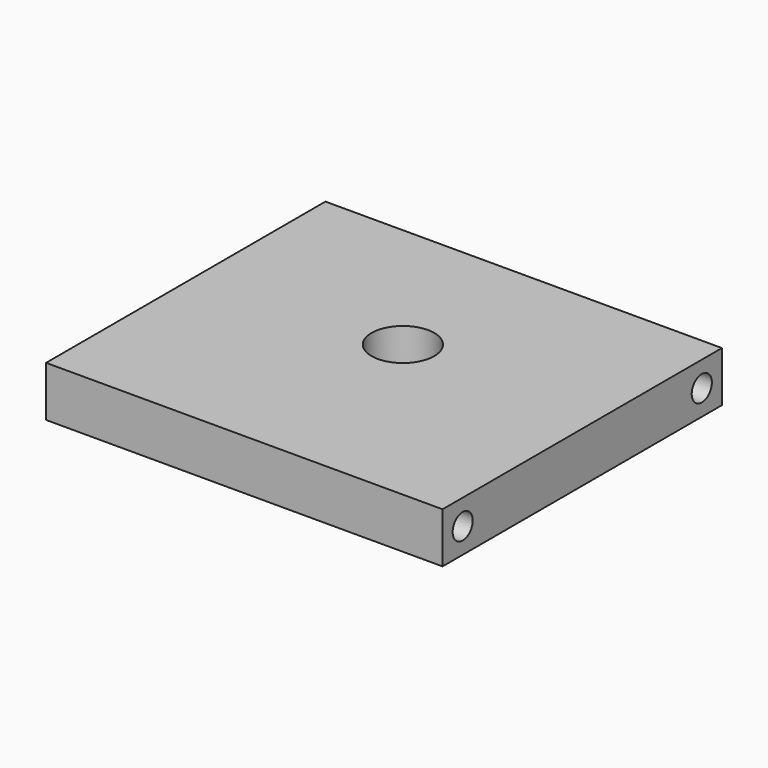
from build123d import *

# Parameters (mm, degrees)
F0_W     = 100.076
F0_H     = 88.138
F1_DEPTH = 12.7
F2_R     = 7.91972
F3_DEPTH = 12.701
F4_R     = 3.175
F5_DEPTH = 12.7
F6_R     = 3.175
F7_DEPTH = 12.7


with BuildPart() as f1:
    # F0 (on Top) → F1 (new body)
    with BuildSketch(Plane.XY):
        with Locations((50.038, -44.069)):
            Rectangle(F0_W, F0_H)
    extrude(amount=F1_DEPTH)

    # F2 (on face) → F3 (cut, through all)
    with BuildSketch(Plane.XY.offset(12.7)):
        with Locations((50.038, -38.1)):
            Circle(F2_R)
    extrude(amount=-F3_DEPTH, mode=Mode.SUBTRACT)

    # F4 (on face) → F5 (cut)
    with BuildSketch(Plane.YZ.offset(100.076)):
        with Locations((-81.788, 6.35)):
            Circle(F4_R)
        with Locations((-6.35, 6.35)):
            Circle(F4_R)
    extrude(amount=-F5_DEPTH, mode=Mode.SUBTRACT)

    # F6 (on face) → F7 (cut)
    with BuildSketch(Plane(origin=(0, 0, 0), x_dir=(0, -1, 0), z_dir=(-1, 0, 0))):
        with Locations((6.35, 6.35)):
            Circle(F6_R)
        with Locations((81.788, 6.35)):
            Circle(F6_R)
    extrude(amount=-F7_DEPTH, mode=Mode.SUBTRACT)


solid = f1.part
